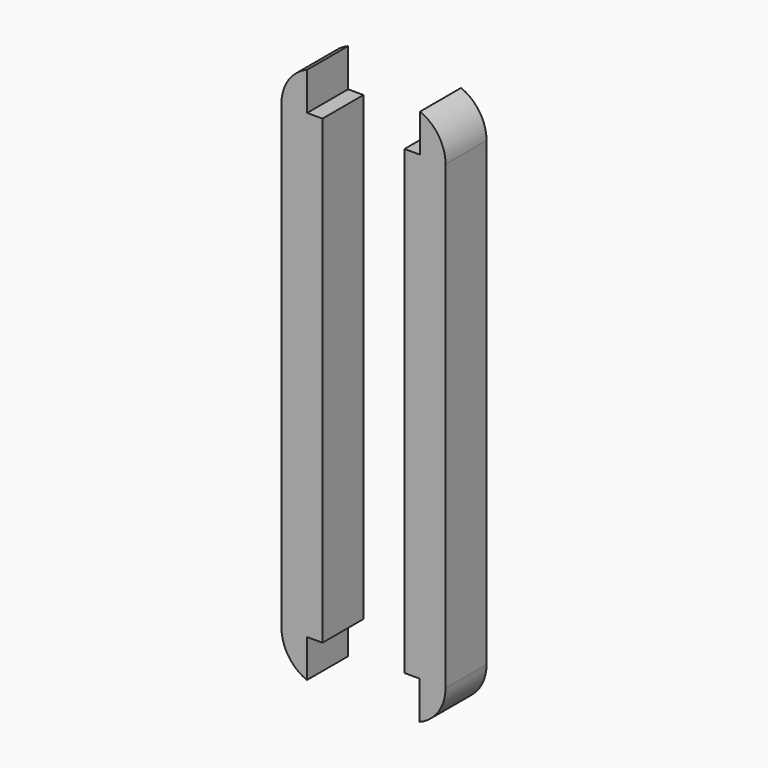
from build123d import *

# Parameters (mm, degrees)
F1_DEPTH = 5


with BuildPart() as f1:
    # F0 (on Front) → F1 (new body, symmetric)
    with BuildSketch(Plane.XZ):
        with BuildLine():
            Line((-11.039166, -45), (-8, -45))
            Line((-8, -45), (-8, 45))
            Line((-8, 45), (-11, 45))
            Line((-11, 45), (-11, 52.416198))
            ThreePointArc((-11, 52.416198), (-14.63325, 49.472136), (-16, 45))
            Line((-16, 45), (-16, -45))
            ThreePointArc((-16, -45), (-14.649977, -49.447225), (-11.055547, -52.393486))
            ThreePointArc((-11.055547, -52.393486), (-11.047358, -52.396865), (-11.039166, -52.400235))
            Line((-11.039166, -52.400235), (-11.039166, -45))
        make_face()
        with BuildLine():
            Line((8, 45), (8, -45))
            Line((8, -45), (10.960791, -45))
            Line((10.960791, -45), (10.960791, -52.431939))
            ThreePointArc((10.960791, -52.431939), (14.621417, -49.489636), (16, -45))
            Line((16, -45), (16, 45))
            ThreePointArc((16, 45), (14.643403, 49.457039), (11.033702, 52.402476))
            Line((11.033702, 52.402476), (11.033702, 45))
            Line((11.033702, 45), (8, 45))
        make_face()
    extrude(amount=F1_DEPTH, both=True)


solid = f1.part
